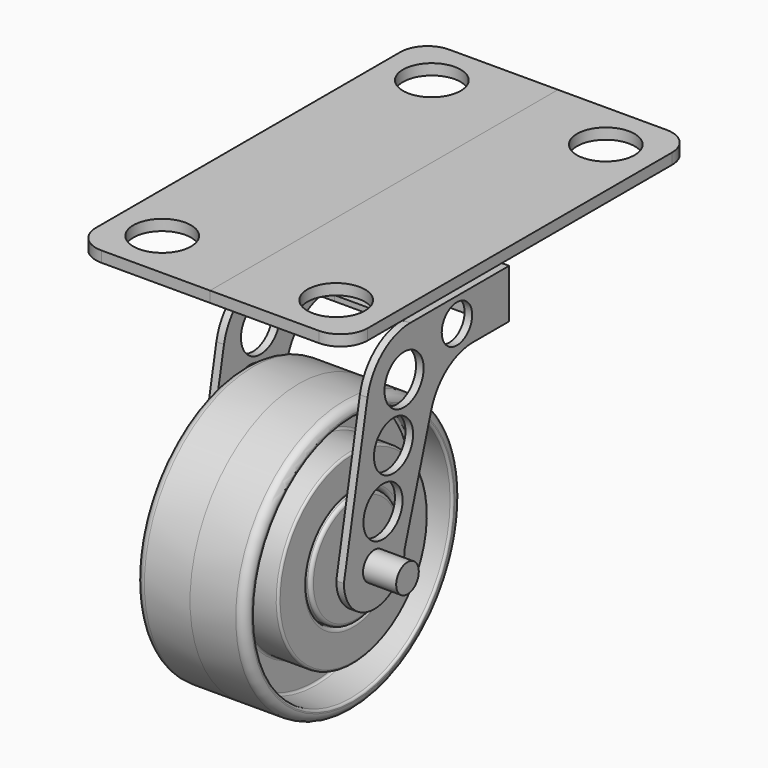
from build123d import *

# Parameters (mm, degrees)
F3_R      = 3.302
F4_DEPTH  = 25.4
F5_R      = 3.302
F5_R_2    = 5.715
F5_R_3    = 4.445
F6_DEPTH  = 1.778
F8_DEPTH  = 1.27
F10_ANGLE = -180
F11_R     = 6.731
F12_DEPTH = 2.54
F14_W     = 31.75
F14_H     = 10.16
F15_DEPTH = 2.54


with BuildPart() as f1:
    # F0 (on Front) → F1 (revolve)
    with BuildSketch(Plane.XZ):
        with BuildLine():
            Line((12.7, 31.75), (2.032, 31.75))
            ThreePointArc((2.032, 31.75), (0.595159, 31.154841), (0, 29.718))
            Line((0, 29.718), (0, 29.464))
            ThreePointArc((0, 29.464), (0.14879, 29.10479), (0.508, 28.956))
            Line((0.508, 28.956), (8.636, 28.956))
            ThreePointArc((8.636, 28.956), (8.99521, 28.80721), (9.144, 28.448))
            Line((9.144, 28.448), (9.144, 22.352))
            ThreePointArc((9.144, 22.352), (8.99521, 21.99279), (8.636, 21.844))
            Line((8.636, 21.844), (0.508, 21.844))
            ThreePointArc((0.508, 21.844), (0.14879, 21.69521), (0, 21.336))
            Line((0, 21.336), (0, 14.224))
            ThreePointArc((0, 14.224), (0.223185, 13.685185), (0.762, 13.462))
            Line((0.762, 13.462), (3.048, 13.462))
            ThreePointArc((3.048, 13.462), (3.586815, 13.685185), (3.81, 14.224))
            Line((3.81, 14.224), (3.81, 18.542))
            ThreePointArc((3.81, 18.542), (3.95879, 18.90121), (4.318, 19.05))
            Line((4.318, 19.05), (12.7, 19.05))
            Line((12.7, 19.05), (12.7, 31.75))
        make_face()
        with BuildLine():
            Line((12.7, 18.7452), (4.318, 18.7452))
            ThreePointArc((4.318, 18.7452), (4.174316, 18.685684), (4.1148, 18.542))
            Line((4.1148, 18.542), (4.1148, 14.224))
            ThreePointArc((4.1148, 14.224), (3.802342, 13.469658), (3.048, 13.1572))
            Line((3.048, 13.1572), (0.127, 13.1572))
            ThreePointArc((0.127, 13.1572), (-0.411815, 12.934015), (-0.635, 12.3952))
            Line((-0.635, 12.3952), (-0.635, 3.556))
            Line((-0.635, 3.556), (12.7, 3.556))
            Line((12.7, 3.556), (12.7, 18.7452))
        make_face()
    revolve(axis=Axis((18.041069, 0, 0), (1, 0, 0)))


with BuildPart() as f4:
    # F3 (on face) → F4 (new body)
    with BuildSketch(Plane.YZ.offset(12.7)):
        Circle(F3_R)
    extrude(amount=-F4_DEPTH)

    # F5 (on offset) → F6 (join)
    with BuildSketch(Plane(origin=(-3.175, 0, 0), x_dir=(0, -1, 0), z_dir=(-1, 0, 0))):
        with BuildLine():
            Line((-16.62788, 25.303871), (-8.89, 0))
            ThreePointArc((-8.89, 0), (0, -8.89), (8.89, 0))
            Line((8.89, 0), (1.998102, 35.444045))
            ThreePointArc((1.998102, 35.444045), (-2.390522, 42.819882), (-10.468413, 45.72))
            Line((-10.468413, 45.72), (-39.37, 45.72))
            Line((-39.37, 45.72), (-39.37, 34.29))
            Line((-39.37, 34.29), (-28.772721, 34.29))
            ThreePointArc((-28.772721, 34.29), (-21.218787, 31.799216), (-16.62788, 25.303871))
        make_face()
        Circle(F5_R, mode=Mode.SUBTRACT)
        with Locations((-2.533839, 10.16)):
            Circle(F5_R_2, mode=Mode.SUBTRACT)
        with Locations((-24.13, 40.005)):
            Circle(F5_R_3, mode=Mode.SUBTRACT)
        with Locations((-5.607009, 22.482566)):
            Circle(F5_R_2, mode=Mode.SUBTRACT)
        with Locations((-8.680179, 34.805132)):
            Circle(F5_R_2, mode=Mode.SUBTRACT)
    extrude(amount=F6_DEPTH)


with BuildPart() as f8:
    # F7 (on face) → F8 (new body)
    with BuildSketch(Plane.XY.offset(45.72)):
        with BuildLine():
            Line((12.7, 39.37), (-3.175, 39.37))
            Line((-3.175, 39.37), (-3.175, 10.468413))
            Line((-3.175, 10.468413), (-4.953, 10.468413))
            Line((-4.953, 10.468413), (-4.953, 10.414))
            Line((-4.953, 10.414), (12.7, 10.414))
            Line((12.7, 10.414), (12.7, 13.97))
            ThreePointArc((12.7, 13.97), (1.778, 24.892), (12.7, 35.814))
            Line((12.7, 35.814), (12.7, 39.37))
        make_face()
        with BuildLine():
            Line((12.7, 13.97), (12.7, 35.814))
            ThreePointArc((12.7, 35.814), (1.778, 24.892), (12.7, 13.97))
        make_face()
    extrude(amount=-F8_DEPTH)

    # F9 (on face) → F10 (revolve)
    with BuildSketch(Plane.YZ.offset(12.7)):
        Polygon((24.892, 57.109438), (24.892, 44.45), (35.052, 44.45), (35.052, 48.26), (31.242, 48.26), (31.242, 51.521438), (33.528, 51.521438), (33.528, 57.109438), align=None)
        Polygon((31.75, 48.768), (37.846, 48.768), (37.846, 61.427438), (24.892, 61.427438), (24.892, 57.617438), (34.036, 57.617438), (34.036, 51.013438), (31.75, 51.013438), align=None)
    revolve(axis=Axis((12.7, 24.892, 52.938719), (0, 0, -1)), revolution_arc=F10_ANGLE)

    # F11 (on face) → F12 (join)
    with BuildSketch(Plane.XY.offset(61.427438)):
        with BuildLine():
            Line((12.7, -25.908), (12.7, 75.692))
            Line((12.7, 75.692), (-12.7, 75.692))
            ThreePointArc((-12.7, 75.692), (-17.190128, 73.832128), (-19.05, 69.342))
            Line((-19.05, 69.342), (-19.05, -19.558))
            ThreePointArc((-19.05, -19.558), (-17.190128, -24.048128), (-12.7, -25.908))
            Line((-12.7, -25.908), (12.7, -25.908))
        make_face()
        with Locations((-7.62, -14.478)):
            Circle(F11_R, mode=Mode.SUBTRACT)
        with Locations((-7.62, 64.262)):
            Circle(F11_R, mode=Mode.SUBTRACT)
    extrude(amount=-F12_DEPTH)


with BuildPart() as f13_1:
    # F13: instance of F8
    add(f8.part.mirror(Plane.YZ.offset(12.7)))


with BuildPart() as f13_2:
    # F13: instance of F1
    add(f1.part.mirror(Plane.YZ.offset(12.7)))


with BuildPart() as f13_3:
    # F13: instance of F4
    add(f4.part.mirror(Plane.YZ.offset(12.7)))


with BuildPart() as f15:
    # F14 (on face) → F15 (new body)
    with BuildSketch(Plane(origin=(0, 39.37, 0), x_dir=(-1, 0, 0), z_dir=(0, 1, 0))):
        with Locations((-12.7, 39.37)):
            Rectangle(F14_W, F14_H)
    extrude(amount=-F15_DEPTH)


solid = Compound([f1.part, f4.part, f8.part, f13_1.part, f13_2.part, f13_3.part, f15.part])
